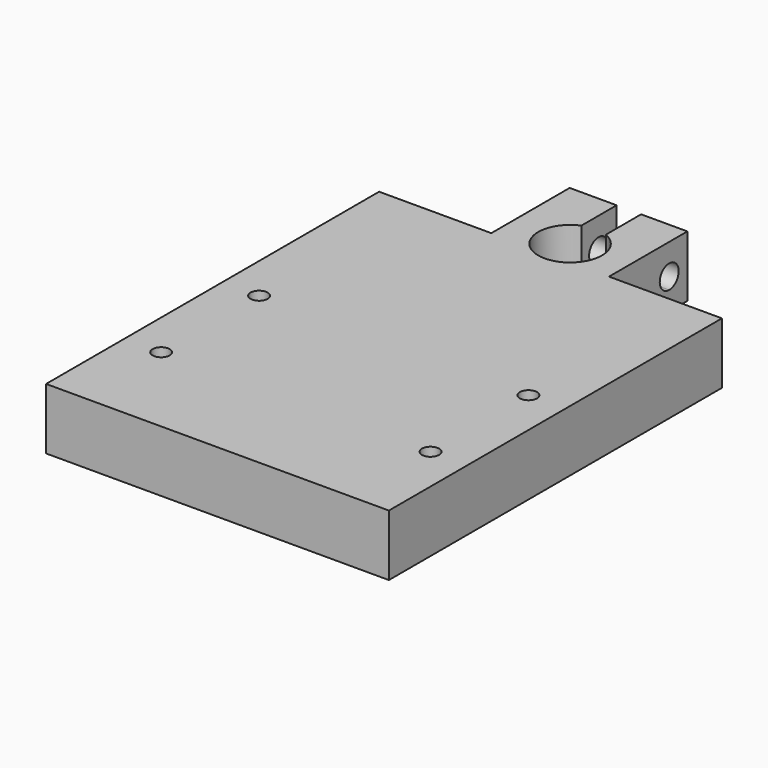
from build123d import *

# Parameters (mm, degrees)
F1_DEPTH = 6.35
F3_D     = 1.778
F5_D     = 2.4384
F5_DEPTH = 5.08
F5_TIP   = 0.7325692667
F7_D     = 2.4384
F7_DEPTH = 25.4
F7_START = 7.3375843
F7_TIP   = 0.7325692667


with BuildPart() as f1:
    # F0 (on Top) → F1 (new body)
    with BuildSketch(Plane.XY):
        with BuildLine():
            Line((0, 14.708516188), (-11.6383890907, 14.708516188))
            Line((-11.6383890907, 14.708516188), (-11.6383890907, -28.471483812))
            Line((-11.6383890907, -28.471483812), (23.9216109093, -28.471483812))
            Line((23.9216109093, -28.471483812), (23.9216109093, 14.708516188))
            Line((23.9216109093, 14.708516188), (12.2091952547, 14.708516188))
            Line((12.2091952547, 14.708516188), (12.2091952547, 24.868516188))
            Line((12.2091952547, 24.868516188), (7.4116109093, 24.868516188))
            Line((7.4116109093, 24.868516188), (7.4116109093, 20.296516188))
            ThreePointArc((7.4116109093, 20.296516188), (6.1416109093, 13.946516188), (4.8716109093, 20.296516188))
            Line((4.8716109093, 20.296516188), (4.8716109093, 24.868516188))
            Line((4.8716109093, 24.868516188), (0, 24.868516188))
            Line((0, 24.868516188), (0, 14.708516188))
        make_face()
    extrude(amount=F1_DEPTH)

    # F3 (through all)
    with Locations(Plane.XY.offset(6.35)):
        with Locations((-7.8283890907, -5.611483812), (20.1116109093, -5.611483812), (20.1116109093, -18.311483812), (-7.8283890907, -18.311483812)):
            Hole(F3_D / 2)

    # F5
    with Locations(Plane.YZ.offset(12.2091952547)):
        with Locations((22.506316188, 3.175)):
            Hole(F5_D / 2, depth=F5_DEPTH)
            with Locations((0, 0, -(F5_DEPTH + F5_TIP / 2))):  # 118° drill point
                Cone(0, F5_D / 2, F5_TIP, mode=Mode.SUBTRACT)

    # F7
    # its depths count from where the whole tool has entered the part; down to there all is cleared
    with Locations(Plane.YZ.offset(12.2091952547).offset(-F7_START)):
        with Locations((22.519016188, 3.175)):
            Hole(F7_D / 2, depth=F7_DEPTH)
            with Locations((0, 0, -(F7_DEPTH + F7_TIP / 2))):  # 118° drill point
                Cone(0, F7_D / 2, F7_TIP, mode=Mode.SUBTRACT)


solid = f1.part
